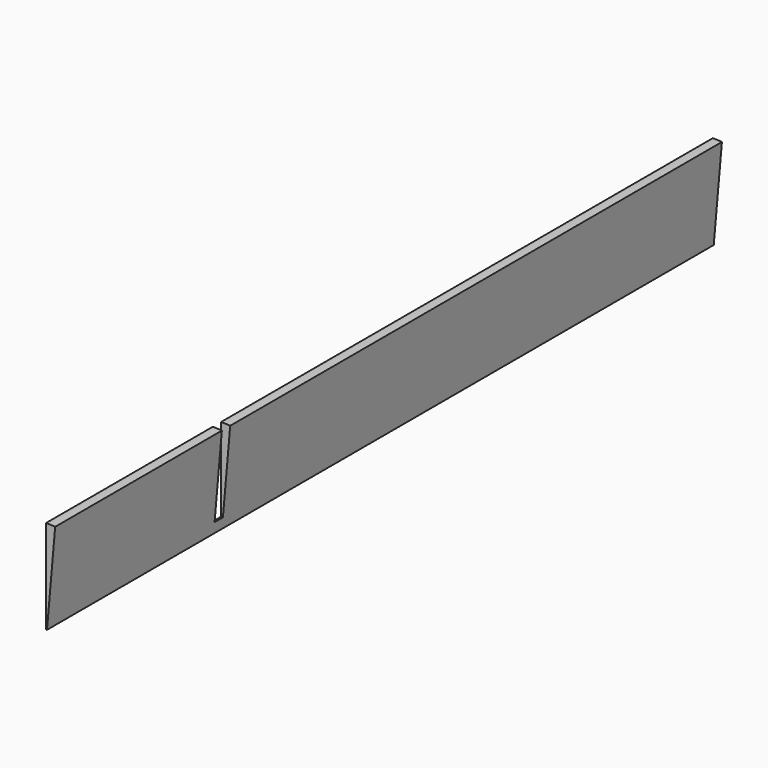
from build123d import *

# Parameters (mm, degrees)
F0_R     = 250
F1_DEPTH = 2000
F3_R     = 250
F3_R_2   = 50
F4_DEPTH = 25
F6_DEPTH = 2000


with BuildPart() as f1:
    # F0 (on Front) → F1 (new body)
    with BuildSketch(Plane.XZ):
        Circle(F0_R)
    extrude(amount=F1_DEPTH)

    # F3 (on offset) → F4 (cut)
    with BuildSketch(Plane.XZ.offset(1475)):
        Circle(F3_R)
        Circle(F3_R_2, mode=Mode.SUBTRACT)
    extrude(amount=F4_DEPTH, mode=Mode.SUBTRACT)

    # F5 (on face) → F6 (intersect)
    with BuildSketch(Plane.XZ.offset(2000)):
        with BuildLine():
            ThreePointArc((21.7889356869, 249.0486745229), (10.9048468413, 249.7620553955), (0, 250))
            Line((0, 250), (0, 25))
            ThreePointArc((0, 25), (1.0904846841, 24.9762055395), (2.1788935687, 24.9048674523))
            Line((2.1788935687, 24.9048674523), (21.7889356869, 249.0486745229))
        make_face()
    extrude(amount=-F6_DEPTH, mode=Mode.INTERSECT)


solid = f1.part
